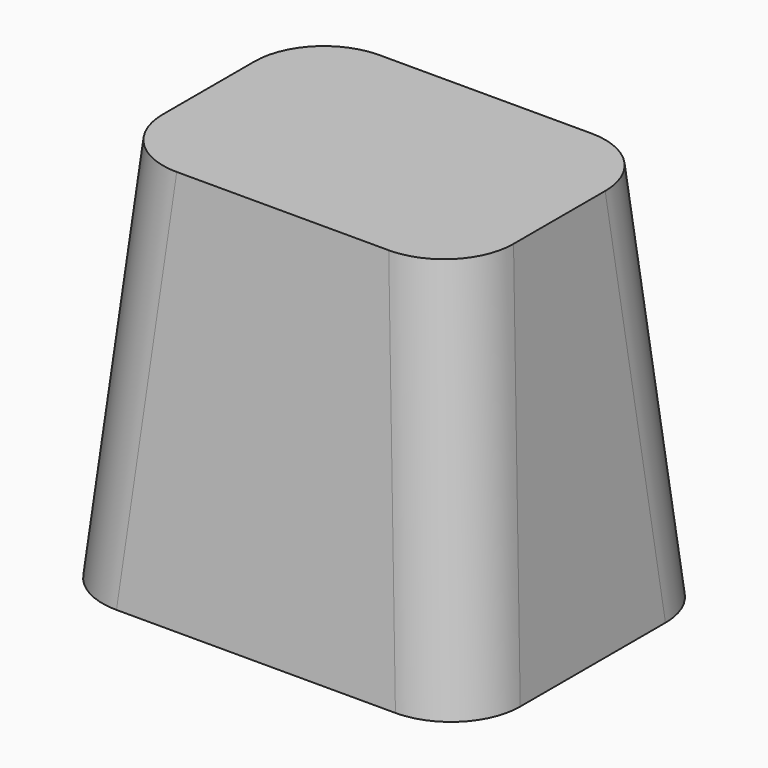
from build123d import *

# Parameters (mm, degrees)
F0_W     = 60
F0_H     = 46
F1_DEPTH = 55
F1_TAPER = 5
F2_R     = 10


with BuildPart() as f1:
    # F0 (on Top) → F1 (new body)
    with BuildSketch(Plane.XY):
        Rectangle(F0_W, F0_H)
    extrude(amount=F1_DEPTH, taper=F1_TAPER)

    # F2
    f2_edges = [f1.edges().sort_by_distance(p)[0] for p in [
        (-27.594061, -20.594061, 27.500005),
        (27.594062, -20.594062, 27.5),
        (-27.594062, 20.594062, 27.5),
        (27.594061, 20.594061, 27.500005),
    ]]
    fillet(f2_edges, radius=F2_R)


solid = f1.part
